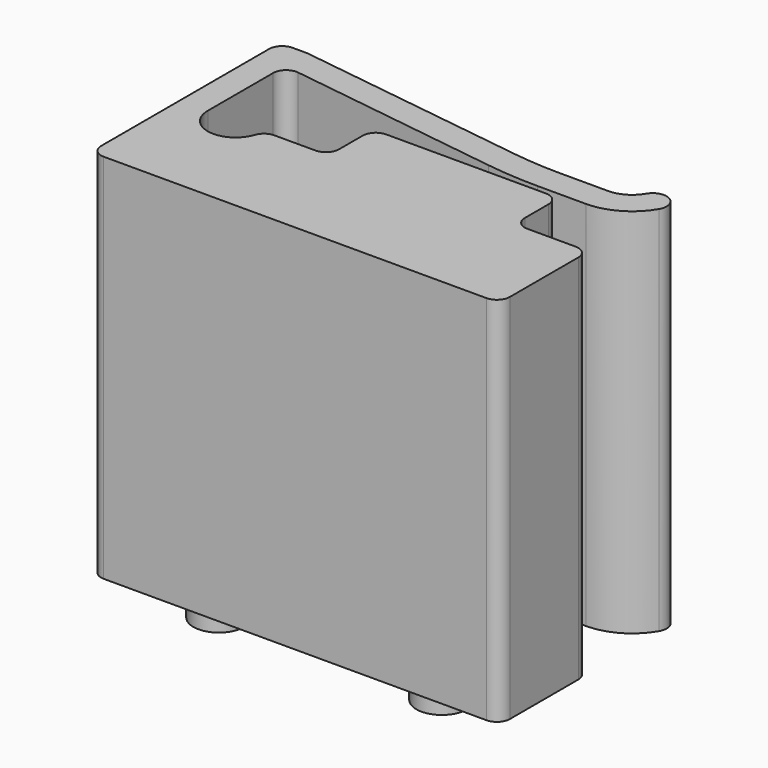
from build123d import *

# Parameters (mm, degrees)
PAD_DEPTH    = 20
SKETCH001_W  = 10
SKETCH001_H  = 2
PAD001_DEPTH = 3
SKETCH002_R  = 1.375
PAD002_DEPTH = 1.4
FILLET_R     = 0.7


with BuildPart() as part:
    # Sketch → Pad (new body)
    with BuildSketch(Plane.XY):
        with BuildLine():
            Line((-10.3, 0), (10.3, 0))
            ThreePointArc((10.3, 0), (10.794975, 0.205025), (11, 0.7))
            Line((11, 5.3), (11, 0.7))
            ThreePointArc((11, 5.3), (10.794975, 5.794975), (10.3, 6))
            Line((-5.914335, 6), (10.3, 6))
            ThreePointArc((-5.914335, 6), (-6.323047, 5.868291), (-6.577955, 5.522727))
            ThreePointArc((-9.5, 6), (-8.241799, 4.519617), (-6.577955, 5.522727))
            Line((-9.5, 6), (-9.5, 10.396598))
            ThreePointArc((-8.704163, 11.090006), (-9.259845, 10.924369), (-9.5, 10.396598))
            Line((-8.704163, 11.090006), (2.8, 9.5))
            ThreePointArc((2.8, 9.5), (4.196693, 9.355621), (5.6, 9.307419))
            Line((5.6, 9.307419), (8.2, 9.307419))
            ThreePointArc((8.2, 9.307419), (9.758568, 9.725036), (10.899519, 10.865987))
            ThreePointArc((10.899519, 10.865987), (10.625, 11.890506), (9.600482, 11.615987))
            ThreePointArc((8.2, 10.807418), (9.008569, 11.024074), (9.600482, 11.615987))
            Line((5.6, 10.807418), (8.2, 10.807418))
            ThreePointArc((3.003702, 10.986104), (4.29878, 10.852143), (5.6, 10.807418))
            Line((-9.452691, 12.693515), (3.003702, 10.986104))
            ThreePointArc((-9.452691, 12.693515), (-9.500111, 12.698377), (-9.547752, 12.7))
            Line((-10.3, 12.7), (-9.547752, 12.7))
            ThreePointArc((-10.3, 12.7), (-10.794975, 12.494975), (-11, 12))
            Line((-11, 6), (-11, 12))
            Line((-11, 0.7), (-11, 6))
            ThreePointArc((-11, 0.7), (-10.794975, 0.205025), (-10.3, 0))
        make_face()
    extrude(amount=PAD_DEPTH)

    # Sketch001 (on DatumPlane) → Pad001 (join)
    with BuildSketch(Plane.XZ.offset(-6)):
        with Locations((2, 19)):
            Rectangle(SKETCH001_W, SKETCH001_H)
    extrude(amount=-PAD001_DEPTH)

    # Sketch002 → Pad002 (join)
    with BuildSketch(Plane.XY):
        with Locations((6, 2.375)):
            Circle(SKETCH002_R)
        with Locations((-6, 2.375)):
            Circle(SKETCH002_R)
    extrude(amount=-PAD002_DEPTH)

    # Fillet
    fillet_edges = [part.edges().sort_by_distance(p)[0] for p in [
        (-3, 9, 19),
        (-3, 6, 19),
        (7, 9, 19),
        (7, 6, 19),
    ]]
    fillet(fillet_edges, radius=FILLET_R)


solid = part.part
